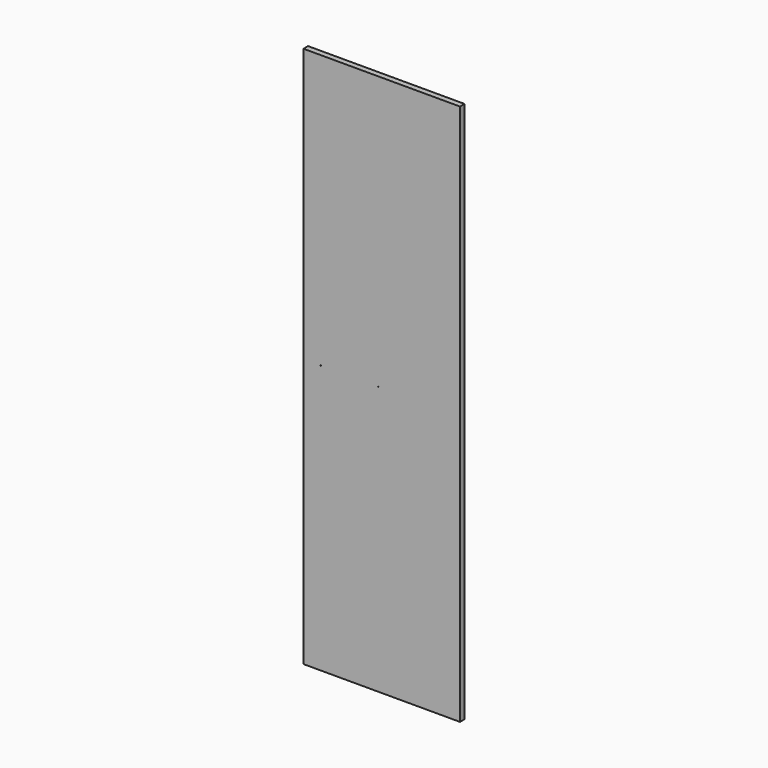
from build123d import *

# Parameters (mm, degrees)
F0_W     = 520
F0_H     = 1800
F1_DEPTH = 19
F2_R     = 2.5
F3_DEPTH = 14
F4_R     = 1
F5_DEPTH = 25


with BuildPart() as f1:
    # F0 (on Front) → F1 (new body)
    with BuildSketch(Plane.XZ):
        Rectangle(F0_W, F0_H)
    extrude(amount=F1_DEPTH)

    # F2 (on face) → F3 (cut)
    with BuildSketch(Plane(origin=(0, 0, 0), x_dir=(-1, 0, 0), z_dir=(0, 1, 0))):
        with Locations((-203, 840)):
            Circle(F2_R)
        with Locations((-203, 808)):
            Circle(F2_R)
        with Locations((-203, 776)):
            Circle(F2_R)
        with Locations((-203, 744)):
            Circle(F2_R)
        with Locations((-203, 712)):
            Circle(F2_R)
        with Locations((-203, 680)):
            Circle(F2_R)
        with Locations((-203, 648)):
            Circle(F2_R)
        with Locations((-203, 616)):
            Circle(F2_R)
        with Locations((-203, 584)):
            Circle(F2_R)
        with Locations((-203, 552)):
            Circle(F2_R)
        with Locations((-203, 520)):
            Circle(F2_R)
        with Locations((-203, 488)):
            Circle(F2_R)
        with Locations((-203, 456)):
            Circle(F2_R)
        with Locations((-203, 424)):
            Circle(F2_R)
        with Locations((-203, 392)):
            Circle(F2_R)
        with Locations((-203, 360)):
            Circle(F2_R)
        with Locations((-203, 328)):
            Circle(F2_R)
        with Locations((-203, 296)):
            Circle(F2_R)
        with Locations((-203, 264)):
            Circle(F2_R)
        with Locations((-203, 232)):
            Circle(F2_R)
        with Locations((-203, 200)):
            Circle(F2_R)
        with Locations((-203, 168)):
            Circle(F2_R)
        with Locations((-203, 136)):
            Circle(F2_R)
        with Locations((-203, 104)):
            Circle(F2_R)
        with Locations((-203, 72)):
            Circle(F2_R)
        with Locations((-203, 40)):
            Circle(F2_R)
        with Locations((-203, 8)):
            Circle(F2_R)
        with Locations((-203, -24)):
            Circle(F2_R)
        with Locations((-203, -56)):
            Circle(F2_R)
        with Locations((-203, -88)):
            Circle(F2_R)
        with Locations((-203, -120)):
            Circle(F2_R)
        with Locations((-203, -152)):
            Circle(F2_R)
        with Locations((-203, -184)):
            Circle(F2_R)
        with Locations((-203, -216)):
            Circle(F2_R)
        with Locations((-203, -248)):
            Circle(F2_R)
        with Locations((-203, -280)):
            Circle(F2_R)
        with Locations((-203, -312)):
            Circle(F2_R)
        with Locations((-203, -344)):
            Circle(F2_R)
        with Locations((-203, -376)):
            Circle(F2_R)
        with Locations((-203, -408)):
            Circle(F2_R)
        with Locations((-203, -440)):
            Circle(F2_R)
        with Locations((-203, -472)):
            Circle(F2_R)
        with Locations((-203, -504)):
            Circle(F2_R)
        with Locations((-203, -536)):
            Circle(F2_R)
        with Locations((-203, -568)):
            Circle(F2_R)
        with Locations((-203, -600)):
            Circle(F2_R)
        with Locations((-203, -632)):
            Circle(F2_R)
        with Locations((-203, -664)):
            Circle(F2_R)
        with Locations((-203, -696)):
            Circle(F2_R)
        with Locations((-203, -728)):
            Circle(F2_R)
        with Locations((203, 840)):
            Circle(F2_R)
        with Locations((203, 808)):
            Circle(F2_R)
        with Locations((203, 776)):
            Circle(F2_R)
        with Locations((203, 744)):
            Circle(F2_R)
        with Locations((203, 712)):
            Circle(F2_R)
        with Locations((203, 680)):
            Circle(F2_R)
        with Locations((203, 648)):
            Circle(F2_R)
        with Locations((203, 616)):
            Circle(F2_R)
        with Locations((203, 584)):
            Circle(F2_R)
        with Locations((203, 552)):
            Circle(F2_R)
        with Locations((203, 520)):
            Circle(F2_R)
        with Locations((203, 488)):
            Circle(F2_R)
        with Locations((203, 456)):
            Circle(F2_R)
        with Locations((203, 424)):
            Circle(F2_R)
        with Locations((203, 392)):
            Circle(F2_R)
        with Locations((203, 360)):
            Circle(F2_R)
        with Locations((203, 328)):
            Circle(F2_R)
        with Locations((203, 296)):
            Circle(F2_R)
        with Locations((203, 264)):
            Circle(F2_R)
        with Locations((203, 232)):
            Circle(F2_R)
        with Locations((203, 200)):
            Circle(F2_R)
        with Locations((203, 168)):
            Circle(F2_R)
        with Locations((203, 136)):
            Circle(F2_R)
        with Locations((203, 104)):
            Circle(F2_R)
        with Locations((203, 72)):
            Circle(F2_R)
        with Locations((203, 40)):
            Circle(F2_R)
        with Locations((203, 8)):
            Circle(F2_R)
        with Locations((203, -24)):
            Circle(F2_R)
        with Locations((203, -56)):
            Circle(F2_R)
        with Locations((203, -88)):
            Circle(F2_R)
        with Locations((203, -120)):
            Circle(F2_R)
        with Locations((203, -152)):
            Circle(F2_R)
        with Locations((203, -184)):
            Circle(F2_R)
        with Locations((203, -216)):
            Circle(F2_R)
        with Locations((203, -248)):
            Circle(F2_R)
        with Locations((203, -280)):
            Circle(F2_R)
        with Locations((203, -312)):
            Circle(F2_R)
        with Locations((203, -344)):
            Circle(F2_R)
        with Locations((203, -376)):
            Circle(F2_R)
        with Locations((203, -408)):
            Circle(F2_R)
        with Locations((203, -440)):
            Circle(F2_R)
        with Locations((203, -472)):
            Circle(F2_R)
        with Locations((203, -504)):
            Circle(F2_R)
        with Locations((203, -536)):
            Circle(F2_R)
        with Locations((203, -568)):
            Circle(F2_R)
        with Locations((203, -600)):
            Circle(F2_R)
        with Locations((203, -632)):
            Circle(F2_R)
        with Locations((203, -664)):
            Circle(F2_R)
        with Locations((203, -696)):
            Circle(F2_R)
        with Locations((203, -728)):
            Circle(F2_R)
        with Locations((-203, -760)):
            Circle(F2_R)
        with Locations((-203, -792)):
            Circle(F2_R)
        with Locations((-203, -824)):
            Circle(F2_R)
        with Locations((203, -760)):
            Circle(F2_R)
        with Locations((203, -792)):
            Circle(F2_R)
        with Locations((203, -824)):
            Circle(F2_R)
    extrude(amount=-F3_DEPTH, mode=Mode.SUBTRACT)

    # F4 (on face) → F5 (cut)
    with BuildSketch(Plane.XZ.offset(19)):
        with Locations((-203, -8)):
            Circle(F4_R)
        with Locations((-11, -8)):
            Circle(F4_R)
    extrude(amount=-F5_DEPTH, mode=Mode.SUBTRACT)


solid = f1.part
